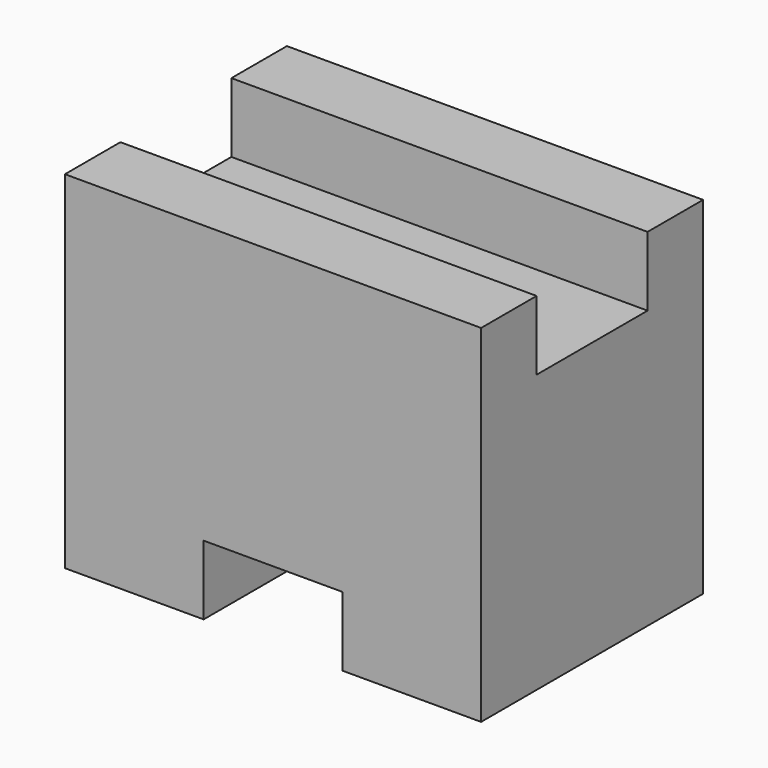
from build123d import *

# Parameters (mm, degrees)
F0_W     = 25.4
F0_H     = 31.75
F1_DEPTH = 38.1
F2_W     = 12.7
F2_H     = 6.35
F3_DEPTH = 38.101
F4_W     = 12.7
F4_H     = 6.35
F5_DEPTH = 25.401


with BuildPart() as f1:
    # F0 (on Right) → F1 (new body)
    with BuildSketch(Plane.YZ):
        with Locations((-2.052457, 15.875)):
            Rectangle(F0_W, F0_H)
    extrude(amount=F1_DEPTH)

    # F2 (on face) → F3 (cut, through all)
    with BuildSketch(Plane.YZ.offset(38.1)):
        with Locations((-2.052457, 28.575)):
            Rectangle(F2_W, F2_H)
    extrude(amount=-F3_DEPTH, mode=Mode.SUBTRACT)

    # F4 (on face) → F5 (cut, through all)
    with BuildSketch(Plane.XZ.offset(14.752457)):
        with Locations((19.05, 3.175)):
            Rectangle(F4_W, F4_H)
    extrude(amount=-F5_DEPTH, mode=Mode.SUBTRACT)


solid = f1.part
